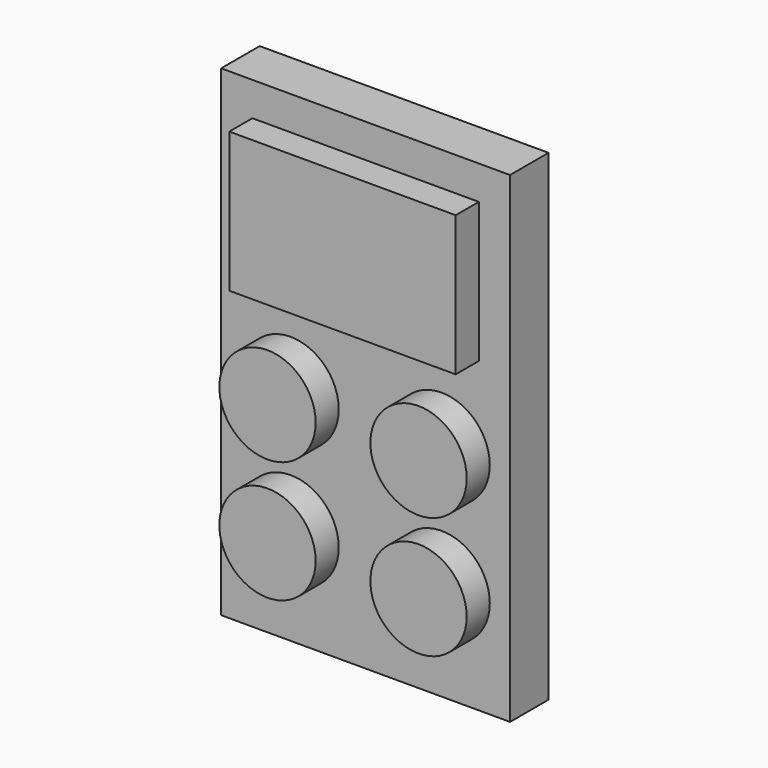
from build123d import *

# Parameters (mm, degrees)
F0_W     = 30
F0_H     = 50
F1_DEPTH = 5
F2_W     = 23.511692
F2_H     = 14.549925
F2_R     = 5
F3_DEPTH = 3


with BuildPart() as f1:
    # F0 (on Front) → F1 (new body)
    with BuildSketch(Plane.XZ):
        Rectangle(F0_W, F0_H)
    extrude(amount=F1_DEPTH)

    # F2 (on face) → F3 (join)
    with BuildSketch(Plane.XZ.offset(5)):
        with Locations((0, 14.21516)):
            Rectangle(F2_W, F2_H)
        with Locations((-7.789027, -2.200567)):
            Circle(F2_R)
        with Locations((7.896153, -2.200567)):
            Circle(F2_R)
        with Locations((-7.789027, -14.839294)):
            Circle(F2_R)
        with Locations((7.896153, -14.839294)):
            Circle(F2_R)
    extrude(amount=F3_DEPTH)


solid = f1.part
